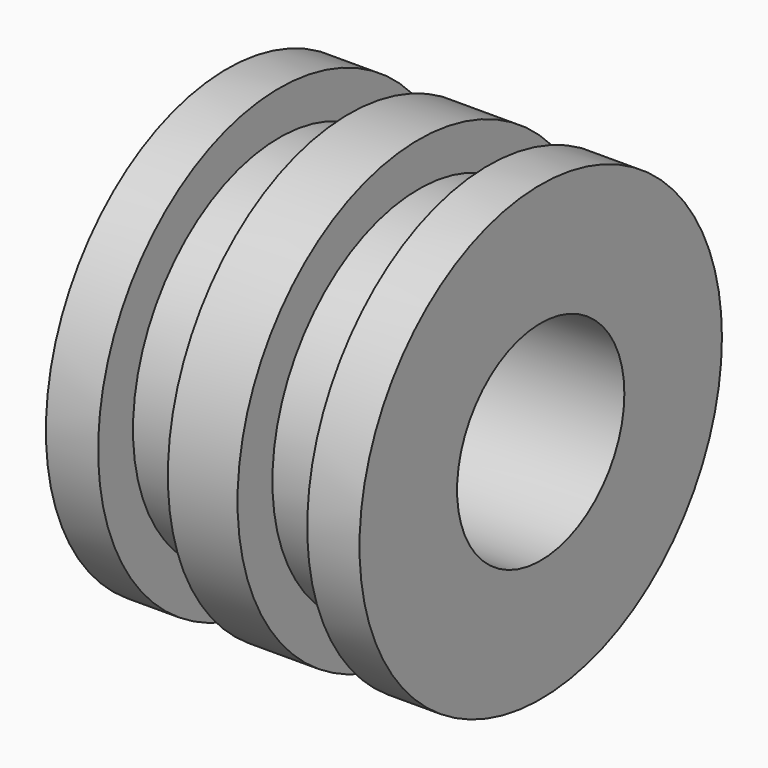
from build123d import *


with BuildPart() as f1:
    # F0 (on Top) → F1 (revolve)
    with BuildSketch(Plane.XY):
        Polygon((0, 6.5), (0, 2), (3, 2), (3, 3), (9, 3), (9, 4.788356), (9, 6.5), (7.5, 6.5), (7.5, 5.25), (5.5, 5.25), (5.5, 6.5), (3.5, 6.5), (3.5, 5.25), (1.5, 5.25), (1.5, 6.5), align=None)
    revolve(axis=Axis((3.778169, 0, 0), (1, 0, 0)))


solid = f1.part
